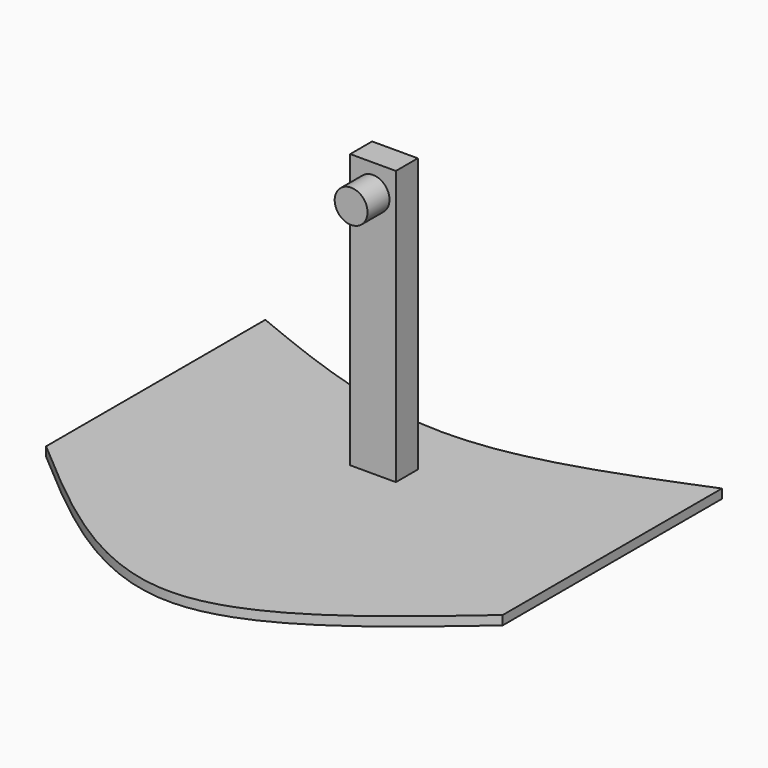
from build123d import *

# Parameters (mm, degrees)
F1_DEPTH = 5
F2_W     = 25
F2_H     = 15
F3_DEPTH = 150
F4_R     = 9
F5_DEPTH = 15


with BuildPart() as f1:
    # F0 (on Top) → F1 (new body)
    with BuildSketch(Plane.XY):
        with BuildLine():
            add(Edge.make_bspline(
                [(-124.999996, 75), (-83.333332, 58.017569), (3e-06, 24.052707), (83.333335, 58.017569), (125.000004, 75)],
                knots=[0, 0, 0, 0, 129.532278, 259.064562, 259.064562, 259.064562, 259.064562], degree=3))
            Line((-124.999996, 75), (-125.000004, -75))
            add(Edge.make_bspline(
                [(-125.000004, -75), (-83.333335, -110.975347), (-2e-06, -182.926038), (83.333332, -110.975345), (124.999996, -75)],
                knots=[0, 0, 0, 0, 144.228648, 288.45729, 288.45729, 288.45729, 288.45729], degree=3))
            Line((124.999996, -75), (125.000004, 75))
        make_face()
    extrude(amount=F1_DEPTH)

    # F2 (on face) → F3 (join)
    with BuildSketch(Plane.XY.offset(5)):
        Rectangle(F2_W, F2_H)
    extrude(amount=F3_DEPTH)


with BuildPart() as f5:
    # F4 (on face) → F5 (new body)
    with BuildSketch(Plane.XZ.offset(7.5)):
        with Locations((0, 140)):
            Circle(F4_R)
    extrude(amount=F5_DEPTH)


solid = Compound([f1.part, f5.part])
